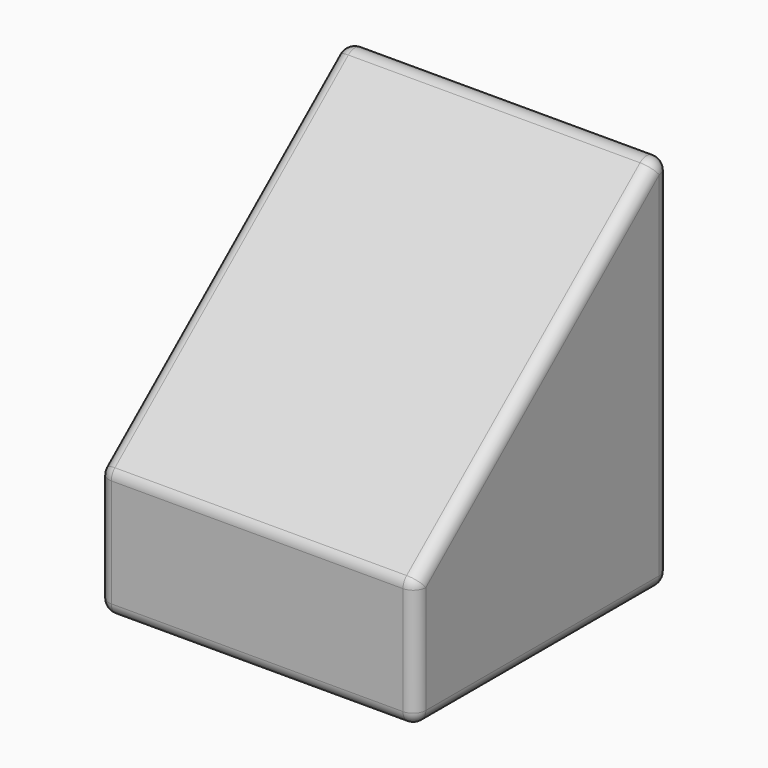
from build123d import *

# Parameters (mm, degrees)
F1_DEPTH = 25
F2_R     = 1


with BuildPart() as f1:
    # F0 (on Right) → F1 (new body)
    with BuildSketch(Plane.YZ):
        Polygon((-25, 0), (0, 0), (0, 30.977491), (-25, 10), align=None)
    extrude(amount=F1_DEPTH)

    # F2
    f2_edges = [f1.edges().sort_by_distance(p)[0] for p in [
        (12.5, 0, 0),
        (12.5, 0, 30.977491),
        (0, 0, 15.488745),
        (25, 0, 15.488745),
        (12.5, -25, 10),
        (0, -12.5, 20.488745),
        (25, -12.5, 20.488745),
        (12.5, -25, 0),
        (0, -25, 5),
        (25, -25, 5),
        (25, -12.5, 0),
        (0, -12.5, 0),
    ]]
    fillet(f2_edges, radius=F2_R)


solid = f1.part
